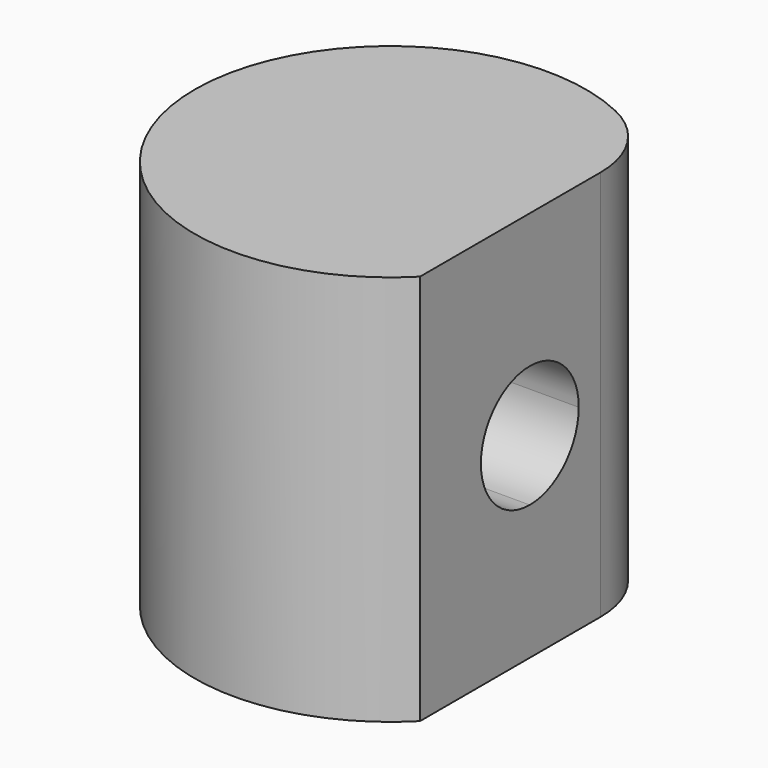
from build123d import *

# Parameters (mm, degrees)
F1_DEPTH = 80
F3_DEPTH = 40


with BuildPart() as f1:
    # F0 (on Top) → F1 (new body)
    with BuildSketch(Plane.XY):
        with BuildLine():
            ThreePointArc((28.5047389285, 18.1016412449), (25.3880854357, 28.8232367752), (17.0094778569, 36.2032824898))
            ThreePointArc((17.0094778569, 36.2032824898), (-39.3750544667, -7.043087799), (28.5047389285, -28.0620715312))
            Line((28.5047389285, -28.0620715312), (28.5047389285, 18.1016412449))
        make_face()
    extrude(amount=F1_DEPTH)

    # F2 (on face) → F3 (cut)
    with BuildSketch(Plane.YZ.offset(28.5047389285)):
        with BuildLine():
            ThreePointArc((12.5, 40), (8.8388347648, 48.8388347648), (0, 52.5))
            Line((0, 52.5), (0, 27.5))
            ThreePointArc((0, 27.5), (8.8388347648, 31.1611652352), (12.5, 40))
        make_face()
        with BuildLine():
            Line((0, 27.5), (0, 52.5))
            ThreePointArc((0, 52.5), (-12.5, 40), (0, 27.5))
        make_face()
    extrude(amount=-F3_DEPTH, mode=Mode.SUBTRACT)


solid = f1.part
